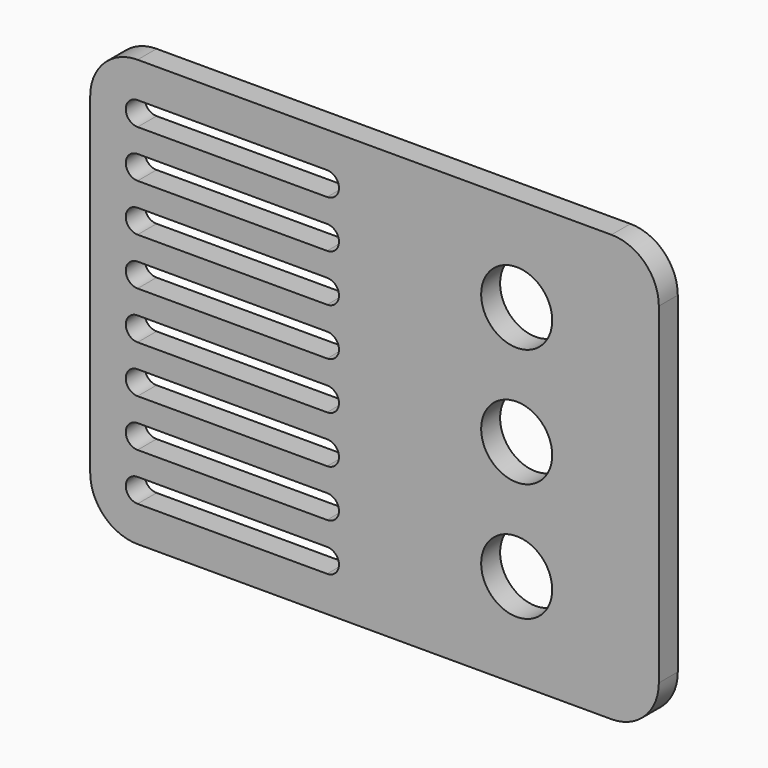
from build123d import *

# Parameters (mm, degrees)
F0_W     = 152.4
F0_H     = 114.3
F1_DEPTH = 6.35
F3_DEPTH = 6.351
F5_D     = 19.05
F6_R     = 12.7
F7_R     = 12.7


with BuildPart() as f1:
    # F0 (on Front) → F1 (new body)
    with BuildSketch(Plane.XZ):
        Rectangle(F0_W, F0_H)
    extrude(amount=F1_DEPTH)

    # F2 (on face) → F3 (cut, through all)
    with BuildSketch(Plane.XZ.offset(6.35)):
        with BuildLine():
            Line((-12.7, 47.625), (-63.5, 47.625))
            ThreePointArc((-63.5, 47.625), (-66.675, 44.45), (-63.5, 41.275))
            Line((-63.5, 41.275), (-12.7, 41.275))
            ThreePointArc((-12.7, 41.275), (-9.525, 44.45), (-12.7, 47.625))
        make_face()
        with BuildLine():
            Line((-12.7, -41.275), (-63.5, -41.275))
            ThreePointArc((-63.5, -41.275), (-66.675, -44.45), (-63.5, -47.625))
            Line((-63.5, -47.625), (-12.7, -47.625))
            ThreePointArc((-12.7, -47.625), (-9.525, -44.45), (-12.7, -41.275))
        make_face()
        with BuildLine():
            ThreePointArc((-63.5, 34.925), (-66.675, 31.75), (-63.5, 28.575))
            Line((-63.5, 28.575), (-12.7, 28.575))
            ThreePointArc((-12.7, 28.575), (-9.525, 31.75), (-12.7, 34.925))
            Line((-12.7, 34.925), (-63.5, 34.925))
        make_face()
        with BuildLine():
            Line((-12.7, -28.575), (-63.5, -28.575))
            ThreePointArc((-63.5, -28.575), (-66.675, -31.75), (-63.5, -34.925))
            Line((-63.5, -34.925), (-12.7, -34.925))
            ThreePointArc((-12.7, -34.925), (-9.525, -31.75), (-12.7, -28.575))
        make_face()
        with BuildLine():
            Line((-12.7, 22.225), (-63.5, 22.225))
            ThreePointArc((-63.5, 22.225), (-66.675, 19.05), (-63.5, 15.875))
            Line((-63.5, 15.875), (-12.7, 15.875))
            ThreePointArc((-12.7, 15.875), (-9.525, 19.05), (-12.7, 22.225))
        make_face()
        with BuildLine():
            Line((-12.7, -15.875), (-63.5, -15.875))
            ThreePointArc((-63.5, -15.875), (-66.675, -19.05), (-63.5, -22.225))
            Line((-63.5, -22.225), (-12.7, -22.225))
            ThreePointArc((-12.7, -22.225), (-9.525, -19.05), (-12.7, -15.875))
        make_face()
        with BuildLine():
            Line((-12.7, 9.525), (-63.5, 9.525))
            ThreePointArc((-63.5, 9.525), (-66.675, 6.35), (-63.5, 3.175))
            Line((-63.5, 3.175), (-12.7, 3.175))
            ThreePointArc((-12.7, 3.175), (-9.525, 6.35), (-12.7, 9.525))
        make_face()
        with BuildLine():
            ThreePointArc((-63.5, -3.175), (-66.675, -6.35), (-63.5, -9.525))
            Line((-63.5, -9.525), (-12.7, -9.525))
            ThreePointArc((-12.7, -9.525), (-9.525, -6.35), (-12.7, -3.175))
            Line((-12.7, -3.175), (-63.5, -3.175))
        make_face()
    extrude(amount=-F3_DEPTH, mode=Mode.SUBTRACT)

    # F5 (through all)
    with Locations(Plane(origin=(0, 0, 0), x_dir=(1, 0, 0), z_dir=(0, 1, 0))):
        with Locations((38.1, 31.75), (38.1, 0), (38.1, -31.75)):
            Hole(F5_D / 2)

    # F6
    f6_edges = [f1.edges().sort_by_distance(p)[0] for p in [
        (76.2, -3.175, 57.15),
        (76.2, -3.175, -57.15),
    ]]
    fillet(f6_edges, radius=F6_R)

    # F7
    f7_edges = [f1.edges().sort_by_distance(p)[0] for p in [
        (-76.2, -3.175, 57.15),
        (-76.2, -3.175, -57.15),
    ]]
    fillet(f7_edges, radius=F7_R)


solid = f1.part
